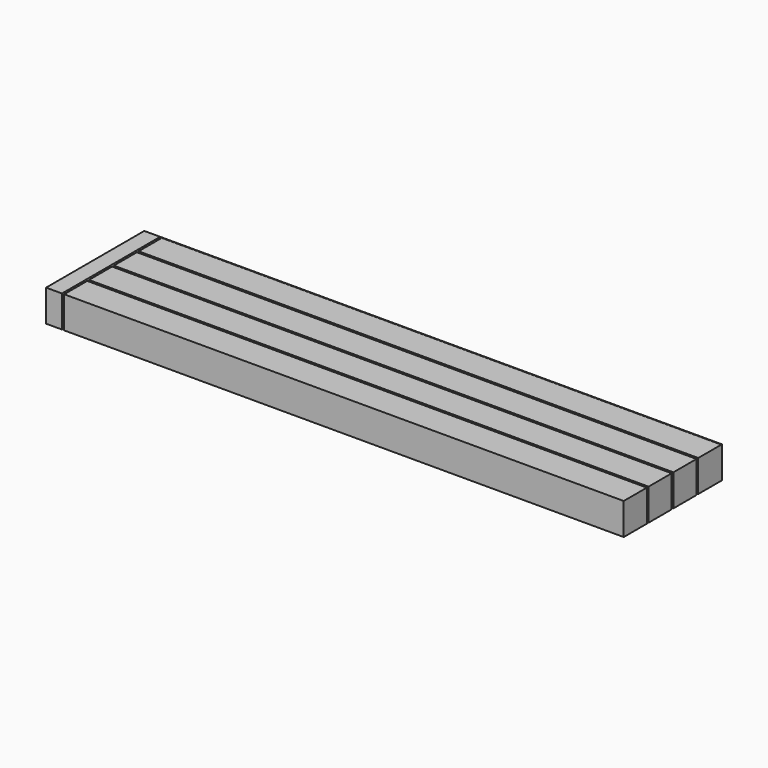
from build123d import *

# Parameters (mm, degrees)
F1_DEPTH = 44
F2_W     = 775
F2_H     = 0.5
F2_H_2   = 3
F3_DEPTH = 134


with BuildPart() as f1:
    # F0 (on Top) → F1 (new body)
    with BuildSketch(Plane.XY):
        Polygon((-800, 0), (0, 0), (0, 40), (0, 43), (0, 83), (0, 86), (0, 170), (-800, 170), align=None)
    extrude(amount=F1_DEPTH)

    # F2 (on Top) → F3 (cut)
    with BuildSketch(Plane.XY):
        Polygon((-775, 129), (-775, 169), (-778, 169), (-778, 0), (-775, 0), (-775, 40), (-775, 43), (-775, 83), (-775, 86), (-775, 126), align=None)
        with Locations((-387.5, 169.25)):
            Rectangle(F2_W, F2_H)
        with Locations((-387.5, 127.5)):
            Rectangle(F2_W, F2_H_2)
        with Locations((-387.5, 84.5)):
            Rectangle(F2_W, F2_H_2)
        with Locations((-387.5, 41.5)):
            Rectangle(F2_W, F2_H_2)
    extrude(amount=F3_DEPTH, mode=Mode.SUBTRACT)


solid = f1.part
